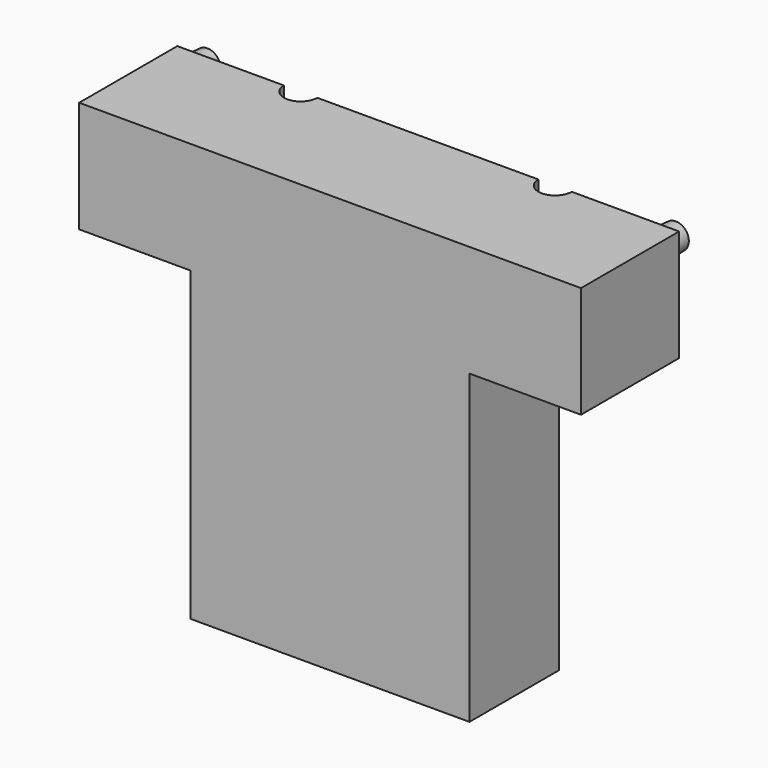
from build123d import *

# Parameters (mm, degrees)
F0_W      = 90
F0_H      = 22
F1_DEPTH  = 10
F3_DEPTH  = 5
F4_R      = 2
F5_W      = 90
F5_H      = 22
F6_DEPTH  = 10
F8_DEPTH  = 10
F9_R      = 2
F11_DEPTH = 45
F13_DEPTH = 45
F14_R     = 2
F15_W     = 50
F15_H     = 22
F16_DEPTH = 10
F17_R     = 5
F18_DEPTH = 25
F18_TAPER = 3
F20_R     = 3
F21_DEPTH = 90
F22_R     = 2.5
F23_DEPTH = 3
F23_TAPER = 3
F24_R     = 2.5
F25_DEPTH = 3
F25_TAPER = 3


with BuildPart() as f1:
    # F0 (on Top) → F1 (new body)
    with BuildSketch(Plane.XY):
        with Locations((0, -55.5313304067)):
            Rectangle(F0_W, F0_H)
    extrude(amount=F1_DEPTH)

    # F2 (on face) → F3 (cut)
    with BuildSketch(Plane(origin=(0, 0, 0), x_dir=(1, 0, 0), z_dir=(0, 0, -1))):
        Polygon((-39.5, 44.5313304067), (0, 44.5313304067), (39.5, 44.5313304067), (39.19890013, 61.7813304067), (-39.19890013, 61.7813304067), align=None)
    extrude(amount=-F3_DEPTH, mode=Mode.SUBTRACT)

    # F4
    f4_edges = [f1.edges().sort_by_distance(p)[0] for p in [
        (-39.1989, -61.78133, 2.5),
        (39.1989, -61.78133, 2.5),
    ]]
    fillet(f4_edges, radius=F4_R)

    # F5 (on face) → F6 (join)
    with BuildSketch(Plane(origin=(0, 0, 0), x_dir=(1, 0, 0), z_dir=(0, 0, -1))):
        with Locations((0, 55.5313304067)):
            Rectangle(F5_W, F5_H)
    extrude(amount=F6_DEPTH)

    # F7 (on face) → F8 (cut)
    with BuildSketch(Plane(origin=(0, 0, -10), x_dir=(1, 0, 0), z_dir=(0, 0, -1))):
        Polygon((-20, 44.5313304067), (0, 44.5313304067), (20, 44.5313304067), (19.8167218183, 55.0313304067), (-19.8167218183, 55.0313304067), align=None)
        Polygon((19.8167218183, 55.0313304067), (20, 44.5313304067), (20, 55.0313304067), align=None)
        Polygon((-20, 55.0313304067), (-20, 44.5313304067), (-19.8167218183, 55.0313304067), align=None)
        Polygon((-20, 44.5313304067), (0, 44.5313304067), (20, 44.5313304067), (19.8167218183, 55.0313304067), (-19.8167218183, 55.0313304067), align=None)
    extrude(amount=-F8_DEPTH, mode=Mode.SUBTRACT)

    # F9
    f9_edges = [f1.edges().sort_by_distance(p)[0] for p in [
        (-20, -55.03133, -5),
        (20, -55.03133, -5),
    ]]
    fillet(f9_edges, radius=F9_R)

    # F10 (on face) → F11 (join)
    with BuildSketch(Plane(origin=(0, 0, -10), x_dir=(1, 0, 0), z_dir=(0, 0, -1))):
        Polygon((-25, 44.5313304067), (0, 44.5313304067), (25, 44.5313304067), (25, 66.5313304067), (-25, 66.5313304067), align=None)
    extrude(amount=F11_DEPTH)

    # F12 (on face) → F13 (cut)
    with BuildSketch(Plane(origin=(0, 0, -55), x_dir=(1, 0, 0), z_dir=(0, 0, -1))):
        Polygon((-17.5, 44.5313304067), (0, 44.5313304067), (17.5, 44.5313304067), (17.3603594806, 52.5313304067), (-17.3603594806, 52.5313304067), align=None)
    extrude(amount=-F13_DEPTH, mode=Mode.SUBTRACT)

    # F14
    f14_edges = [f1.edges().sort_by_distance(p)[0] for p in [
        (-17.360359, -52.53133, -32.5),
        (17.360359, -52.53133, -32.5),
    ]]
    fillet(f14_edges, radius=F14_R)

    # F15 (on face) → F16 (join)
    with BuildSketch(Plane(origin=(0, 0, -55), x_dir=(1, 0, 0), z_dir=(0, 0, -1))):
        with Locations((0, 55.5313304067)):
            Rectangle(F15_W, F15_H)
    extrude(amount=F16_DEPTH)

    # F17 (on face) → F18 (cut)
    with BuildSketch(Plane(origin=(0, 0, -65), x_dir=(1, 0, 0), z_dir=(0, 0, -1))):
        with Locations((0, 44.5313304067)):
            Circle(F17_R)
    extrude(amount=-F18_DEPTH, taper=F18_TAPER, mode=Mode.SUBTRACT)

    # F20 (on face) → F21 (cut)
    with BuildSketch(Plane.XY.offset(10)):
        with Locations((22.7543748915, -44.5189550519)):
            Circle(F20_R)
        with Locations((-22.8854361922, -44.5189550519)):
            Circle(F20_R)
    extrude(amount=-F21_DEPTH, mode=Mode.SUBTRACT)

    # F22 (on face) → F23 (join)
    with BuildSketch(Plane(origin=(0, -44.5313304067, 0), x_dir=(-1, 0, 0), z_dir=(0, 1, 0))):
        with Locations((-15.0013593957, -60.537815094)):
            Circle(F22_R)
        with Locations((15.0013593957, -60.537815094)):
            Circle(F22_R)
    extrude(amount=F23_DEPTH, taper=F23_TAPER)

    # F24 (on face) → F25 (join)
    with BuildSketch(Plane(origin=(0, -44.5313304067, 0), x_dir=(-1, 0, 0), z_dir=(0, 1, 0))):
        with Locations((-42, 7.0607517846)):
            Circle(F24_R)
        with Locations((42, 7.0607517846)):
            Circle(F24_R)
    extrude(amount=F25_DEPTH, taper=F25_TAPER)


solid = f1.part
